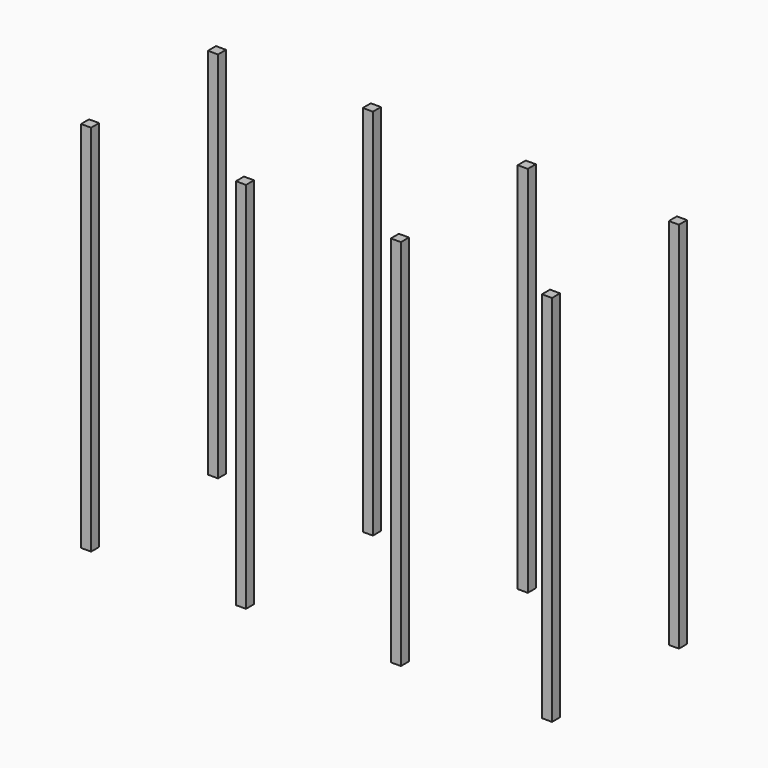
from build123d import *

# Parameters (mm, degrees)
F0_W     = 54
F0_H     = 2000
F1_DEPTH = 54


with BuildPart() as f1:
    # F0 (on Front) → F1 (new body)
    with BuildSketch(Plane.XZ):
        with Locations((27, 1000)):
            Rectangle(F0_W, F0_H)
    extrude(amount=F1_DEPTH)


with BuildPart() as f2_1:
    # F2: copy of F1
    add(f1.part.moved(Location((830, 0, 0))))


with BuildPart() as f3_1:
    # F3: copy of F2_1
    add(f2_1.part.moved(Location((830, 0, 0))))


with BuildPart() as f4_1:
    # F4: copy of F3_1
    add(f3_1.part.moved(Location((810, 0, 0))))


with BuildPart() as f5_1:
    # F5: copy of F1
    add(f1.part.moved(Location((0, 730, 0))))


with BuildPart() as f6_1:
    # F6: copy of F3_1
    add(f3_1.part.moved(Location((0, 850, 0))))


with BuildPart() as f6_2:
    # F6: copy of F2_1
    add(f2_1.part.moved(Location((0, 850, 0))))


with BuildPart() as f6_3:
    # F6: copy of F4_1
    add(f4_1.part.moved(Location((0, 850, 0))))


with BuildPart() as f6_4:
    # F6: copy of F1
    add(f1.part.moved(Location((0, 850, 0))))


solid = Compound([f1.part, f2_1.part, f3_1.part, f4_1.part, f6_1.part, f6_2.part, f6_3.part, f6_4.part])
